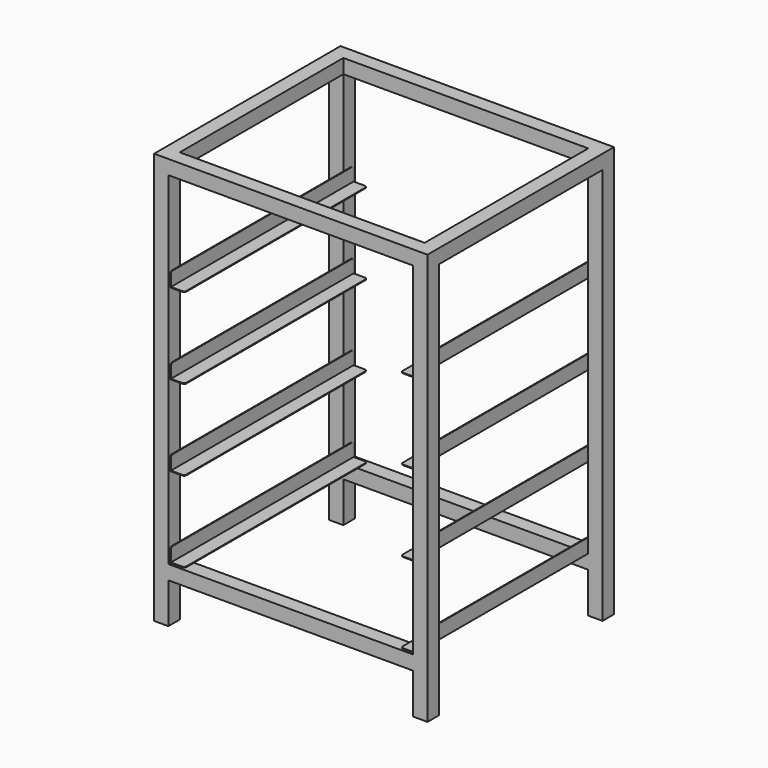
from build123d import *

# Parameters (mm, degrees)
F0_W          = 30
F0_H          = 30
F1_DEPTH      = 865
F2_W          = 30
F2_H          = 30
F3_DEPTH      = 257.5
F3_DEPTH_BACK = 257.5
F4_W          = 30
F4_H          = 30
F5_DEPTH      = 215
F5_DEPTH_BACK = 215
F6_W          = 480
F6_H          = 30
F7_DEPTH      = 1.5
F8_W          = 480
F8_H          = 1.5
F9_DEPTH      = 28.5
F10_R         = 5


with BuildPart() as f1:
    # F0 (on Top) → F1 (new body)
    with BuildSketch(Plane.XY):
        with Locations((-272.5, 230)):
            Rectangle(F0_W, F0_H)
        with Locations((272.5, 230)):
            Rectangle(F0_W, F0_H)
        with Locations((272.5, -230)):
            Rectangle(F0_W, F0_H)
        with Locations((-272.5, -230)):
            Rectangle(F0_W, F0_H)
    extrude(amount=F1_DEPTH)

    # F2 (on Right) → F3 (join, two sides)
    with BuildSketch(Plane.YZ) as f3_sk:
        with Locations((-230, 100)):
            Rectangle(F2_W, F2_H)
        with Locations((230, 100)):
            Rectangle(F2_W, F2_H)
        with Locations((-230, 850)):
            Rectangle(F2_W, F2_H)
        with Locations((230, 850)):
            Rectangle(F2_W, F2_H)
    extrude(amount=F3_DEPTH)
    extrude(f3_sk.sketch, amount=-F3_DEPTH_BACK)

    # F4 (on Front) → F5 (join, two sides)
    with BuildSketch(Plane.XZ) as f5_sk:
        with Locations((-272.5, 850)):
            Rectangle(F4_W, F4_H)
        with Locations((272.5, 850)):
            Rectangle(F4_W, F4_H)
    extrude(amount=F5_DEPTH)
    extrude(f5_sk.sketch, amount=-F5_DEPTH_BACK)



with BuildPart() as f7:
    # F6 (on face) → F7 (new body)
    with BuildSketch(Plane.YZ.offset(-257.5)):
        with Locations((0, 130)):
            Rectangle(F6_W, F6_H)
        with Locations((0, 300)):
            Rectangle(F6_W, F6_H)
        with Locations((0, 470)):
            Rectangle(F6_W, F6_H)
        with Locations((0, 640)):
            Rectangle(F6_W, F6_H)
    extrude(amount=F7_DEPTH)


with BuildPart() as f1_1:
    add(f1.part)

    add(f7.part)  # F9 merges F7
    # F8 (on face) → F9 (join)
    with BuildSketch(Plane.YZ.offset(-256)):
        with Locations((0, 115.75)):
            Rectangle(F8_W, F8_H)
        with Locations((0, 285.75)):
            Rectangle(F8_W, F8_H)
        with Locations((0, 455.75)):
            Rectangle(F8_W, F8_H)
        with Locations((0, 625.75)):
            Rectangle(F8_W, F8_H)
    extrude(amount=F9_DEPTH)

    # F10
    f10_edges = [f1_1.edges().sort_by_distance(p)[0] for p in [
        (-256.75, -240, 145),
        (-256.75, 240, 145),
        (-227.5, 240, 115.75),
        (-227.5, -240, 115.75),
        (-256.75, -240, 315),
        (-227.5, -240, 285.75),
        (-227.5, -240, 455.75),
        (-256.75, -240, 485),
        (-227.5, -240, 625.75),
        (-256.75, -240, 655),
        (-256.75, 240, 655),
        (-227.5, 240, 625.75),
        (-227.5, 240, 455.75),
        (-256.75, 240, 485),
        (-227.5, 240, 285.75),
        (-256.75, 240, 315),
    ]]
    fillet(f10_edges, radius=F10_R)

    # F11: F1 across plane


with BuildPart() as f1_2:
    add(f1_1.part)
    add(f1_1.part.mirror(Plane.YZ))


solid = f1_2.part
